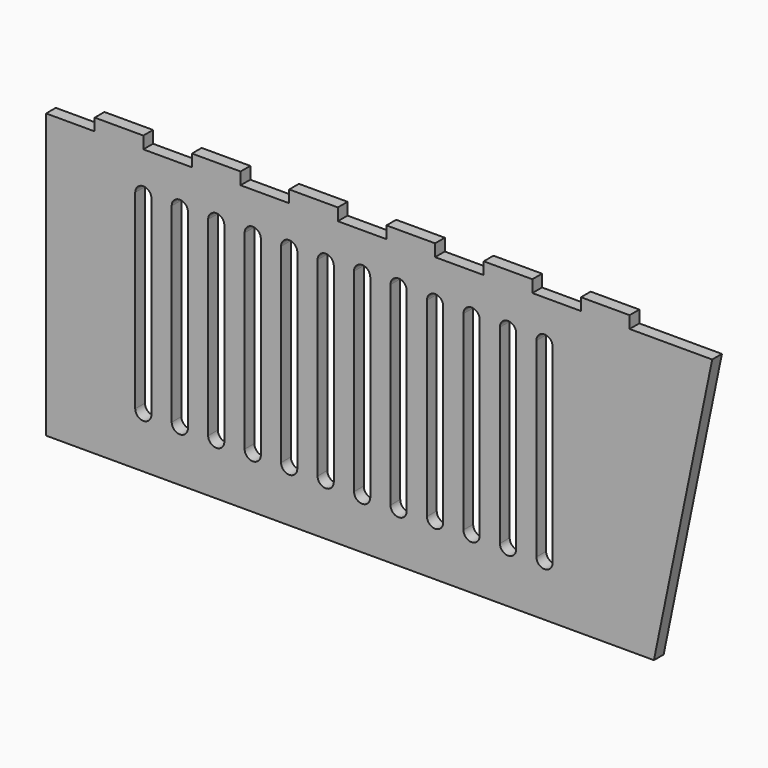
from build123d import *

# Parameters (mm, degrees)
F1_DEPTH = 3


with BuildPart() as f1:
    # F0 (on Front) → F1 (new body)
    with BuildSketch(Plane.XZ):
        Polygon((-82.5, -36.5), (67.5, -36.5), (81.883562, 33.5), (61.5, 33.5), (61.5, 36.5), (49.5, 36.5), (49.5, 33.5), (37.5, 33.5), (37.5, 36.5), (25.5, 36.5), (25.5, 33.5), (13.5, 33.5), (13.5, 36.5), (1.5, 36.5), (1.5, 33.5), (-10.5, 33.5), (-10.5, 36.5), (-22.5, 36.5), (-22.5, 33.5), (-34.5, 33.5), (-34.5, 36.5), (-46.5, 36.5), (-46.5, 33.5), (-58.5, 33.5), (-58.5, 36.5), (-70.5, 36.5), (-70.5, 33.5), (-82.5, 33.5), align=None)
        with BuildLine():
            Line((-56.5, 23.5), (-56.5, -23.5))
            ThreePointArc((-56.5, -23.5), (-58.5, -25.5), (-60.5, -23.5))
            Line((-60.5, -23.5), (-60.5, 23.5))
            ThreePointArc((-60.5, 23.5), (-58.5, 25.5), (-56.5, 23.5))
        make_face(mode=Mode.SUBTRACT)
        with BuildLine():
            Line((-51.5, -23.5), (-51.5, 23.5))
            ThreePointArc((-51.5, 23.5), (-49.5, 25.5), (-47.5, 23.5))
            Line((-47.5, 23.5), (-47.5, -23.5))
            ThreePointArc((-47.5, -23.5), (-49.5, -25.5), (-51.5, -23.5))
        make_face(mode=Mode.SUBTRACT)
        with BuildLine():
            ThreePointArc((-42.5, 23.5), (-40.5, 25.5), (-38.5, 23.5))
            Line((-38.5, 23.5), (-38.5, -23.5))
            ThreePointArc((-38.5, -23.5), (-40.5, -25.5), (-42.5, -23.5))
            Line((-42.5, -23.5), (-42.5, 23.5))
        make_face(mode=Mode.SUBTRACT)
        with BuildLine():
            Line((-29.5, 23.5), (-29.5, -23.5))
            ThreePointArc((-29.5, -23.5), (-31.5, -25.5), (-33.5, -23.5))
            Line((-33.5, -23.5), (-33.5, 23.5))
            ThreePointArc((-33.5, 23.5), (-31.5, 25.5), (-29.5, 23.5))
        make_face(mode=Mode.SUBTRACT)
        with BuildLine():
            Line((-20.5, 23.5), (-20.5, -23.5))
            ThreePointArc((-20.5, -23.5), (-22.5, -25.5), (-24.5, -23.5))
            Line((-24.5, -23.5), (-24.5, 23.5))
            ThreePointArc((-24.5, 23.5), (-22.5, 25.5), (-20.5, 23.5))
        make_face(mode=Mode.SUBTRACT)
        with BuildLine():
            Line((-11.5, 23.5), (-11.5, -23.5))
            ThreePointArc((-11.5, -23.5), (-13.5, -25.5), (-15.5, -23.5))
            Line((-15.5, -23.5), (-15.5, 23.5))
            ThreePointArc((-15.5, 23.5), (-13.5, 25.5), (-11.5, 23.5))
        make_face(mode=Mode.SUBTRACT)
        with BuildLine():
            Line((-2.5, 23.953326), (-2.5, -23.953326))
            ThreePointArc((-2.5, -23.953326), (-4.5, -25.953326), (-6.5, -23.953326))
            Line((-6.5, -23.953326), (-6.5, 23.953326))
            ThreePointArc((-6.5, 23.953326), (-4.5, 25.953326), (-2.5, 23.953326))
        make_face(mode=Mode.SUBTRACT)
        with BuildLine():
            Line((6.5, 23.953326), (6.5, -23.953326))
            ThreePointArc((6.5, -23.953326), (4.5, -25.953326), (2.5, -23.953326))
            Line((2.5, -23.953326), (2.5, 23.953326))
            ThreePointArc((2.5, 23.953326), (4.5, 25.953326), (6.5, 23.953326))
        make_face(mode=Mode.SUBTRACT)
        with BuildLine():
            ThreePointArc((15.5, -23.5), (13.5, -25.5), (11.5, -23.5))
            Line((11.5, -23.5), (11.5, 23.5))
            ThreePointArc((11.5, 23.5), (13.5, 25.5), (15.5, 23.5))
            Line((15.5, 23.5), (15.5, -23.5))
        make_face(mode=Mode.SUBTRACT)
        with BuildLine():
            Line((24.5, 23.5), (24.5, -23.5))
            ThreePointArc((24.5, -23.5), (22.5, -25.5), (20.5, -23.5))
            Line((20.5, -23.5), (20.5, 23.5))
            ThreePointArc((20.5, 23.5), (22.5, 25.5), (24.5, 23.5))
        make_face(mode=Mode.SUBTRACT)
        with BuildLine():
            ThreePointArc((33.5, -23.5), (31.5, -25.5), (29.5, -23.5))
            Line((29.5, -23.5), (29.5, 23.5))
            ThreePointArc((29.5, 23.5), (31.5, 25.5), (33.5, 23.5))
            Line((33.5, 23.5), (33.5, -23.5))
        make_face(mode=Mode.SUBTRACT)
        with BuildLine():
            ThreePointArc((38.5, 23.5), (40.5, 25.5), (42.5, 23.5))
            Line((42.5, 23.5), (42.5, -23.5))
            ThreePointArc((42.5, -23.5), (40.5, -25.5), (38.5, -23.5))
            Line((38.5, -23.5), (38.5, 23.5))
        make_face(mode=Mode.SUBTRACT)
    extrude(amount=F1_DEPTH)


solid = f1.part
